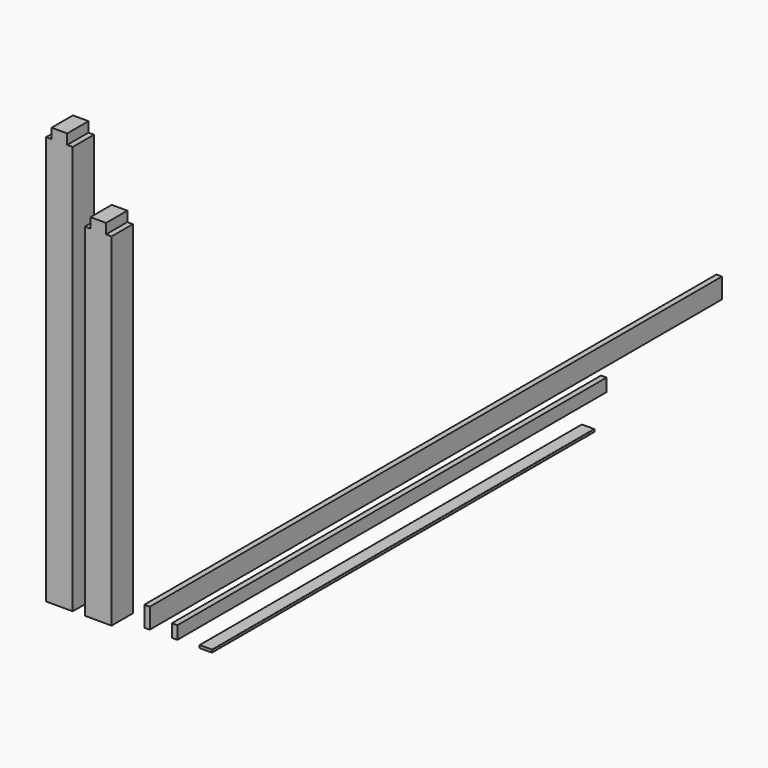
from build123d import *

# Parameters (mm, degrees)
F0_W      = 184.15
F0_H      = 184.15
F1_DEPTH  = 2895.6
F2_DEPTH  = 2438.4
F3_W      = 38.1
F3_H      = 139.7
F4_DEPTH  = 4943.475
F5_W      = 38.1
F5_H      = 69.85
F6_DEPTH  = 184.15
F7_W      = 38.1
F7_H      = 69.85
F8_DEPTH  = 184.15
F9_W      = 38.1
F9_H      = 88.9
F10_DEPTH = 3708.4
F12_DEPTH = 3302


with BuildPart() as f1:
    # F0 (on Top) → F1 (new body)
    with BuildSketch(Plane.XY):
        Rectangle(F0_W, F0_H)
    extrude(amount=F1_DEPTH)

    # F7 (on face) → F8 (cut, through all)
    with BuildSketch(Plane.XZ.offset(92.075)):
        with Locations((-73.025, 2860.675)):
            Rectangle(F7_W, F7_H)
        with Locations((73.025, 2860.675)):
            Rectangle(F7_W, F7_H)
    extrude(amount=-F8_DEPTH, mode=Mode.SUBTRACT)


with BuildPart() as f2:
    # F0 (on Top) → F2 (new body)
    with BuildSketch(Plane.XY):
        with Locations((268.388892, 0)):
            Rectangle(F0_W, F0_H)
    extrude(amount=F2_DEPTH)

    # F5 (on face) → F6 (cut, through all)
    with BuildSketch(Plane.XZ.offset(92.075)):
        with Locations((341.413892, 2403.475)):
            Rectangle(F5_W, F5_H)
        with Locations((195.363892, 2403.475)):
            Rectangle(F5_W, F5_H)
    extrude(amount=-F6_DEPTH, mode=Mode.SUBTRACT)


with BuildPart() as f4:
    # F3 (on Front) → F4 (new body)
    with BuildSketch(Plane.XZ):
        with Locations((531.913892, 69.85)):
            Rectangle(F3_W, F3_H)
    extrude(amount=-F4_DEPTH)


with BuildPart() as f10:
    # F9 (on Front) → F10 (new body)
    with BuildSketch(Plane.XZ):
        with Locations((722.413892, 44.45)):
            Rectangle(F9_W, F9_H)
    extrude(amount=-F10_DEPTH)


with BuildPart() as f12:
    # F11 (on Front) → F12 (new body)
    with BuildSketch(Plane.XZ):
        with BuildLine():
            ThreePointArc((893.863892, 3.175), (894.793828, 0.929936), (897.038892, 0))
            Line((897.038892, 0), (979.588892, 0))
            ThreePointArc((979.588892, 0), (981.833956, 0.929936), (982.763892, 3.175))
            Line((982.763892, 3.175), (982.763892, 15.875))
            ThreePointArc((982.763892, 15.875), (981.833956, 18.120064), (979.588892, 19.05))
            Line((979.588892, 19.05), (897.038892, 19.05))
            ThreePointArc((897.038892, 19.05), (894.793828, 18.120064), (893.863892, 15.875))
            Line((893.863892, 15.875), (893.863892, 3.175))
        make_face()
    extrude(amount=-F12_DEPTH)


solid = Compound([f1.part, f2.part, f4.part, f10.part, f12.part])
